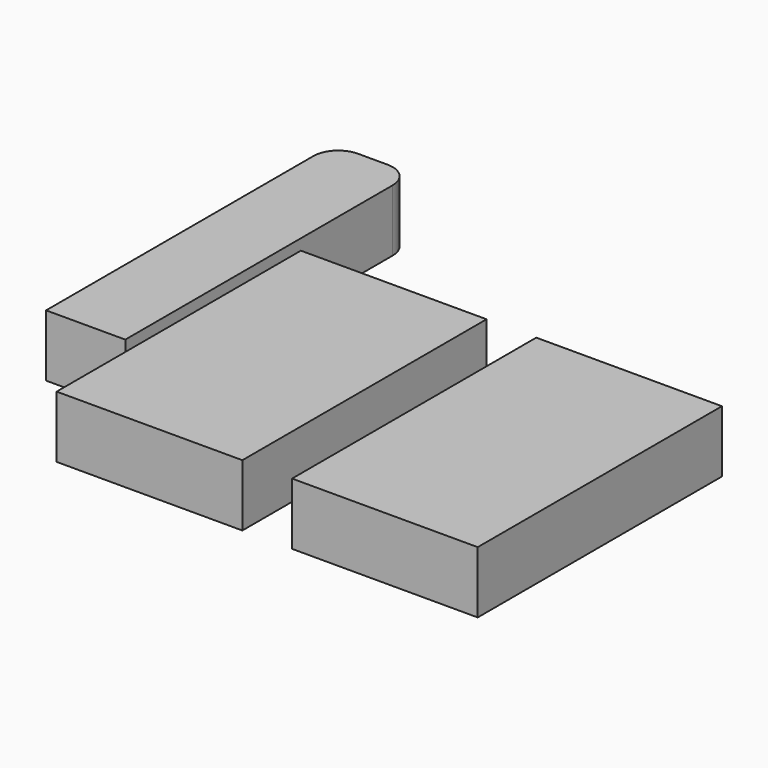
from build123d import *

# Parameters (mm, degrees)
F0_W     = 75.011872
F0_H     = 123.305467
F0_W_2   = 75
F1_DEPTH = 25


with BuildPart() as f1:
    # F0 (on Top) → F1 (new body)
    with BuildSketch(Plane.XY):
        with BuildLine():
            Line((-155.722111, 88.112739), (-167.722111, 88.112739))
            ThreePointArc((-167.722111, 88.112739), (-174.793179, 85.183807), (-177.722111, 78.112739))
            Line((-177.722111, 78.112739), (-177.722111, -56.887261))
            Line((-177.722111, -56.887261), (-145.722111, -56.887261))
            Line((-145.722111, -56.887261), (-145.722111, 78.112739))
            ThreePointArc((-145.722111, 78.112739), (-148.651044, 85.183807), (-155.722111, 88.112739))
        make_face()
        with Locations((-102.93195, -36.499308)):
            Rectangle(F0_W, F0_H)
        with Locations((-7.854273, -36.499308)):
            Rectangle(F0_W_2, F0_H)
    extrude(amount=F1_DEPTH)


solid = f1.part
